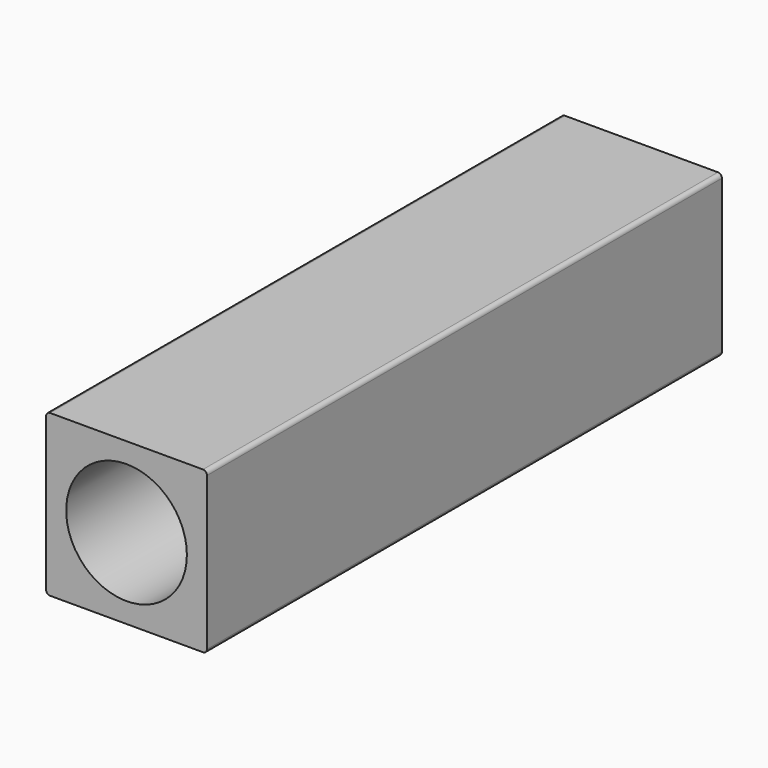
from build123d import *

# Parameters (mm, degrees)
F0_W     = 40
F0_H     = 40
F1_DEPTH = 160
F2_R     = 15
F3_DEPTH = 100
F4_W     = 33
F4_H     = 33
F5_DEPTH = 60
F6_R     = 1


with BuildPart() as f1:
    # F0 (on Front) → F1 (new body)
    with BuildSketch(Plane.XZ):
        Rectangle(F0_W, F0_H)
    extrude(amount=F1_DEPTH)

    # F2 (on face) → F3 (cut)
    with BuildSketch(Plane.XZ.offset(160)):
        Circle(F2_R)
    extrude(amount=-F3_DEPTH, mode=Mode.SUBTRACT)

    # F4 (on face) → F5 (cut)
    with BuildSketch(Plane(origin=(0, 0, 0), x_dir=(-1, 0, 0), z_dir=(0, 1, 0))):
        Rectangle(F4_W, F4_H)
    extrude(amount=-F5_DEPTH, mode=Mode.SUBTRACT)

    # F6
    f6_edges = [f1.edges().sort_by_distance(p)[0] for p in [
        (20, -80, 20),
        (-20, -80, 20),
        (20, -80, -20),
        (-20, -80, -20),
    ]]
    fillet(f6_edges, radius=F6_R)


solid = f1.part
